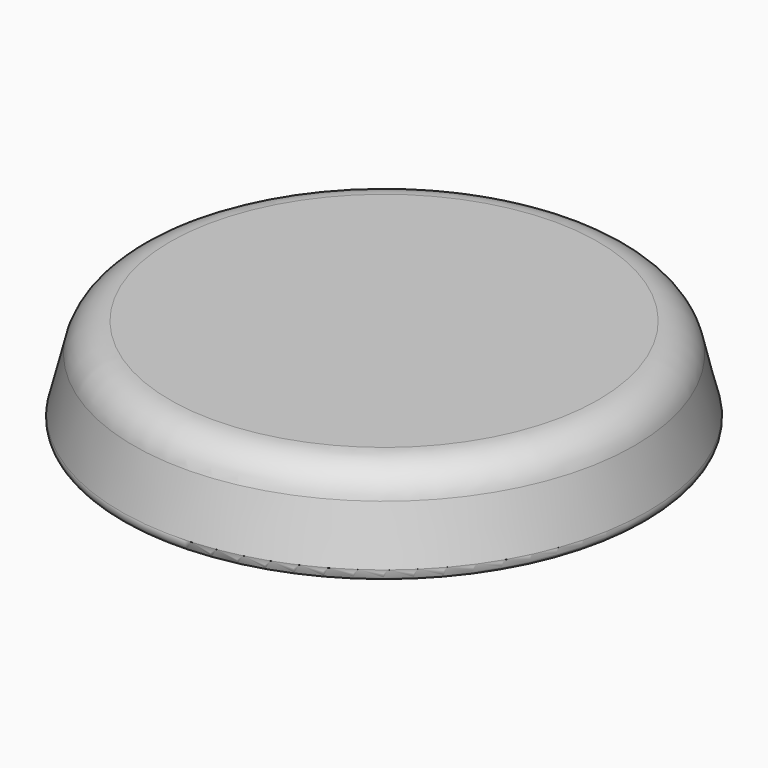
from build123d import *

# Parameters (mm, degrees)
F0_W = 13
F0_H = 5
F2_R = 2
F3_R = 0.5


with BuildPart() as f1:
    # F0 (on Front) → F1 (revolve)
    with BuildSketch(Plane.XZ):
        with Locations((6.5, 2.5)):
            Rectangle(F0_W, F0_H)
        Polygon((13, 5), (13, 0), (14.236494, 0), align=None)
    revolve(axis=Axis((0, 0, 2.5), (0, 0, 1)))

    # F2
    f2_edges = [f1.edges().sort_by_distance(p)[0] for p in [
        (-13, 0, 5),
    ]]
    fillet(f2_edges, radius=F2_R)

    # F3
    f3_edges = [f1.edges().sort_by_distance(p)[0] for p in [
        (-14.236494, 0, 0),
    ]]
    fillet(f3_edges, radius=F3_R)


solid = f1.part
